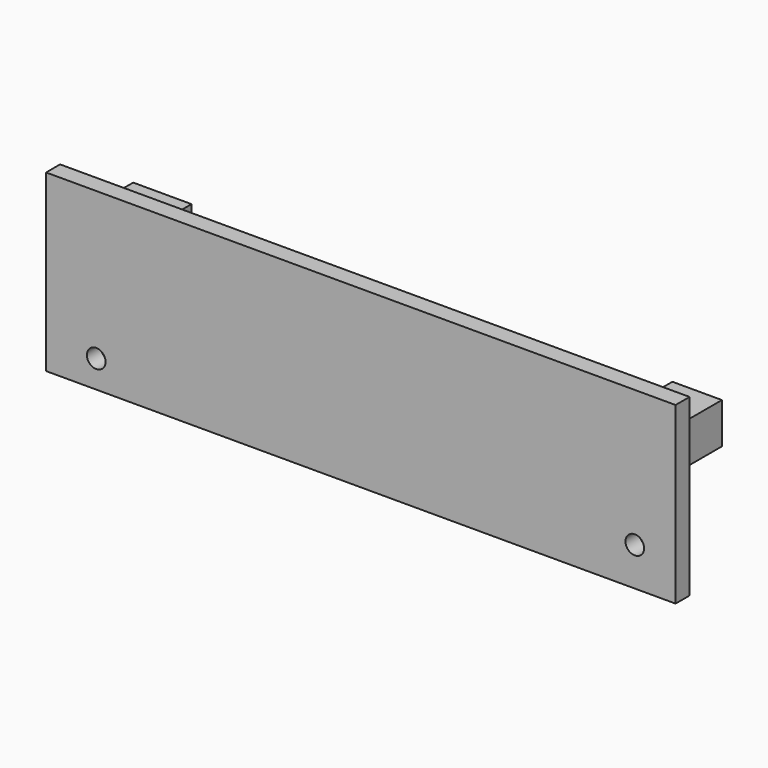
from build123d import *

# Parameters (mm, degrees)
CYLINDER030_R          = 1.6
CYLINDER030_DEPTH      = 12
CYLINDER018_R          = 1.6
CYLINDER018_DEPTH      = 12
PRISM001_DEPTH         = 3
BOX021_W               = 8.5
BOX021_H               = 11
BOX021_DEPTH           = 7
CYLINDER029_R          = 1.6
CYLINDER029_DEPTH      = 10
CYLINDER029_ROLL_ANGLE = 90
CYLINDER016_R          = 1.6
CYLINDER016_DEPTH      = 10
CYLINDER016_ROLL_ANGLE = 90
BOX004_W               = 108
BOX004_H               = 3
BOX004_DEPTH           = 30
CYLINDER014_R          = 1.6
CYLINDER014_DEPTH      = 16
CYLINDER014_ROLL_ANGLE = 90
PRISM_DEPTH            = 3
BOX020_W               = 10
BOX020_H               = 11
BOX020_DEPTH           = 7
CHAMFER004_SIZE        = 1


with BuildPart() as cylinder030:
    # Cylinder030 → Cylinder030 (new body)
    with BuildSketch(Plane(origin=(3.6, 5.69, -7), x_dir=(1, 0, 0), z_dir=(0, 0, 1))):
        Circle(CYLINDER030_R)
    extrude(amount=CYLINDER030_DEPTH)


with BuildPart() as cylinder018:
    # Cylinder018 → Cylinder018 (new body)
    with BuildSketch(Plane(origin=(3.6, 5.69, -7), x_dir=(1, 0, 0), z_dir=(0, 0, 1))):
        Circle(CYLINDER018_R)
    extrude(amount=CYLINDER018_DEPTH)


with BuildPart() as prism001:
    # Prism001 → Prism001 (new body)
    with BuildSketch(Plane(origin=(3.6, 5.69, -7), x_dir=(1, 0, 0), z_dir=(0, 0, 1))):
        Polygon((3, 0), (1.5, 2.598076), (-1.5, 2.598076), (-3, 0), (-1.5, -2.598076), (1.5, -2.598076), align=None)
    extrude(amount=PRISM001_DEPTH)


with BuildPart() as cut008:
    # Box021 → Box021 (new body)
    with BuildSketch(Plane(origin=(-1.25, 0, -7), x_dir=(1, 0, 0), z_dir=(0, 0, 1))):
        with Locations((4.25, 5.5)):
            Rectangle(BOX021_W, BOX021_H)
    extrude(amount=BOX021_DEPTH)

    # Cut007: cut Prism001
    add(prism001.part, mode=Mode.SUBTRACT)


with BuildPart() as cut008_1:
    # Cut007 placement: moved
    add(cut008.part.moved(Location((0, 0, -1))))

    # Cut008: cut Cylinder018
    add(cylinder018.part, mode=Mode.SUBTRACT)


with BuildPart() as cut008_2:
    # Cut008 placement: moved
    add(cut008_1.part.moved(Location((92.5, 0, 0))))


with BuildPart() as cylinder029:
    # Cylinder029 → Cylinder029 (new body)
    with BuildSketch(Plane.XY):
        Circle(CYLINDER029_R)
    extrude(amount=CYLINDER029_DEPTH)


with BuildPart() as cylinder029_1:
    # Cylinder029 roll: moved
    add(cylinder029.part.rotate(Axis((0, 0, 0), (1, 0, 0)), CYLINDER029_ROLL_ANGLE))


with BuildPart() as cylinder029_2:
    # Cylinder029 placement: moved
    add(cylinder029_1.part.moved(Location((3.6, 5.69, -20.3))))


with BuildPart() as fusion010:
    # Cylinder016 → Cylinder016 (new body)
    with BuildSketch(Plane.XY):
        Circle(CYLINDER016_R)
    extrude(amount=CYLINDER016_DEPTH)


with BuildPart() as fusion010_1:
    # Cylinder016 roll: moved
    add(fusion010.part.rotate(Axis((0, 0, 0), (1, 0, 0)), CYLINDER016_ROLL_ANGLE))


with BuildPart() as fusion010_2:
    # Cylinder016 placement: moved
    add(fusion010_1.part.moved(Location((96, 5.69, -18.4))))

    # Fusion010: union Cylinder029
    add(cylinder029_2.part)


with BuildPart() as right_with_holes:
    # Box004 → Box004 (new body)
    with BuildSketch(Plane(origin=(-5, -3, -25), x_dir=(1, 0, 0), z_dir=(0, 0, 1))):
        with Locations((54, 1.5)):
            Rectangle(BOX004_W, BOX004_H)
    extrude(amount=BOX004_DEPTH)

    # Cut028: cut Fusion010
    add(fusion010_2.part, mode=Mode.SUBTRACT)


with BuildPart() as cylinder014:
    # Cylinder014 → Cylinder014 (new body)
    with BuildSketch(Plane.XY):
        Circle(CYLINDER014_R)
    extrude(amount=CYLINDER014_DEPTH)


with BuildPart() as cylinder014_1:
    # Cylinder014 roll: moved
    add(cylinder014.part.rotate(Axis((0, 0, 0), (1, 0, 0)), CYLINDER014_ROLL_ANGLE))


with BuildPart() as cylinder014_2:
    # Cylinder014 placement: moved
    add(cylinder014_1.part.moved(Location((3.6, 5.69, -20.3))))


with BuildPart() as prism:
    # Prism → Prism (new body)
    with BuildSketch(Plane(origin=(3.6, 5.69, -7), x_dir=(1, 0, 0), z_dir=(0, 0, 1))):
        Polygon((3, 0), (1.5, 2.598076), (-1.5, 2.598076), (-3, 0), (-1.5, -2.598076), (1.5, -2.598076), align=None)
    extrude(amount=PRISM_DEPTH)


with BuildPart() as right_side_final:
    # Box020 → Box020 (new body)
    with BuildSketch(Plane(origin=(-1.25, 0, -7), x_dir=(1, 0, 0), z_dir=(0, 0, 1))):
        with Locations((5, 5.5)):
            Rectangle(BOX020_W, BOX020_H)
    extrude(amount=BOX020_DEPTH)

    # Cut005: cut Prism
    add(prism.part, mode=Mode.SUBTRACT)


with BuildPart() as right_side_final_1:
    # Cut005 placement: moved
    add(right_side_final.part.moved(Location((0, 0, -1))))

    # Cut006: cut Cylinder014
    add(cylinder014_2.part, mode=Mode.SUBTRACT)

    # Fusion011: union Cut008, right with holes
    add(cut008_2.part)
    add(right_with_holes.part)

    # Chamfer004
    chamfer004_edges = [right_side_final_1.edges().sort_by_distance(p)[0] for p in [
        (95.5, 0, -8),
        (91.25, 0, -4.5),
        (8.75, 0, -4.5),
        (3.75, 0, -8),
    ]]
    chamfer(chamfer004_edges, length=CHAMFER004_SIZE)

    # Cut029: cut Cylinder030
    add(cylinder030.part, mode=Mode.SUBTRACT)


solid = right_side_final_1.part
